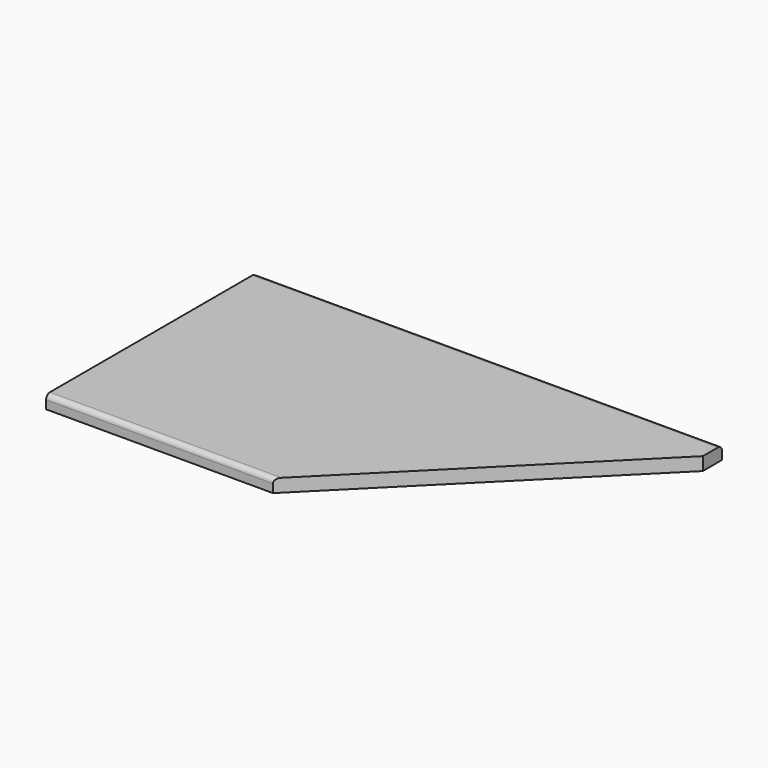
from build123d import *

# Parameters (mm, degrees)
F1_DEPTH = 1238.25
F3_DEPTH = 127


with BuildPart() as f1:
    # F0 (on Right) → F1 (new body)
    with BuildSketch(Plane.YZ):
        with BuildLine():
            Line((-698.5, 0), (0, 0))
            Line((0, 0), (0, 22.225))
            ThreePointArc((0, 22.225), (-3.719744, 31.205256), (-12.7, 34.925))
            Line((-12.7, 34.925), (-685.8, 34.925))
            ThreePointArc((-685.8, 34.925), (-694.780256, 31.205256), (-698.5, 22.225))
            Line((-698.5, 22.225), (-698.5, 0))
        make_face()
    extrude(amount=F1_DEPTH)

    # F2 (on face) → F3 (cut)
    with BuildSketch(Plane(origin=(0, 0, 0), x_dir=(1, 0, 0), z_dir=(0, 0, -1))):
        Polygon((603.25, 698.5), (1238.25, 63.5), (1238.25, 698.5), align=None)
    extrude(amount=-F3_DEPTH, mode=Mode.SUBTRACT)


solid = f1.part
